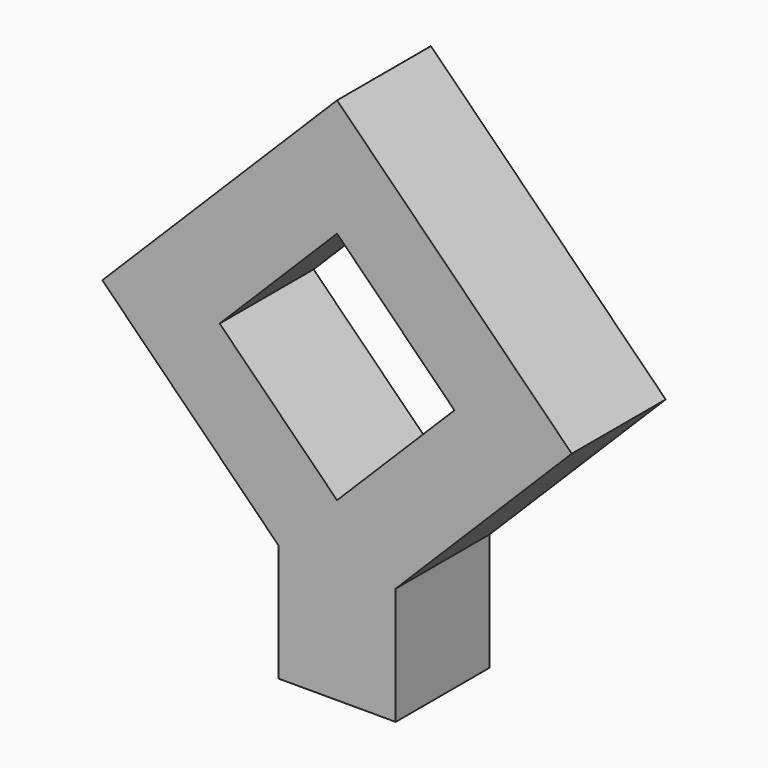
from build123d import *

# Parameters (mm, degrees)
F1_DEPTH = 2.54


with BuildPart() as f1:
    # F0 (on Front) → F1 (new body)
    with BuildSketch(Plane.XZ):
        Polygon((-1.27, 0), (0, 0), (1.27, 0), (1.27, 2.54), (5.08, 6.35), (0, 11.43), (-5.08, 6.35), (-1.27, 2.54), align=None)
        Polygon((2.54, 6.35), (0, 3.81), (-2.54, 6.35), (0, 8.89), align=None, mode=Mode.SUBTRACT)
    extrude(amount=F1_DEPTH)


solid = f1.part
